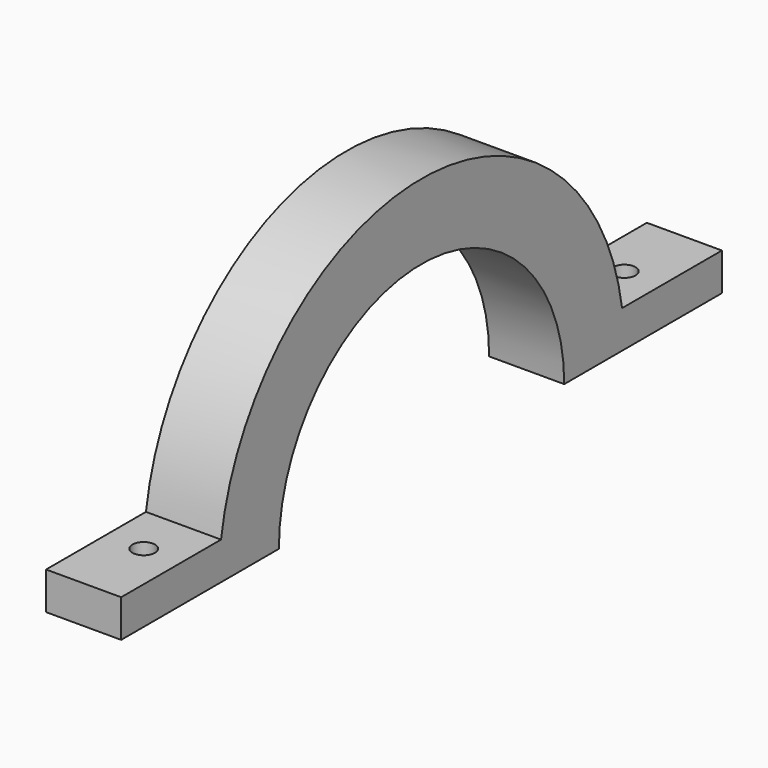
from build123d import *

# Parameters (mm, degrees)
F1_DEPTH = 10
F2_R     = 1.5
F3_DEPTH = 25


with BuildPart() as f1:
    # F0 (on Right) → F1 (new body)
    with BuildSketch(Plane.YZ):
        with BuildLine():
            Line((-50, 0), (-23.75, 0))
            ThreePointArc((-23.75, 0), (0, 23.75), (23.75, 0))
            Line((23.75, 0), (50, 0))
            Line((50, 0), (50, 5))
            Line((50, 5), (33.377575, 5))
            ThreePointArc((33.377575, 5), (0, 33.75), (-33.377575, 5))
            Line((-33.377575, 5), (-50, 5))
            Line((-50, 5), (-50, 0))
        make_face()
    extrude(amount=F1_DEPTH)

    # F2 (on face) → F3 (cut)
    with BuildSketch(Plane.XY.offset(5)):
        with Locations((5, 40)):
            Circle(F2_R)
        with Locations((5, -40)):
            Circle(F2_R)
    extrude(amount=-F3_DEPTH, mode=Mode.SUBTRACT)


solid = f1.part
